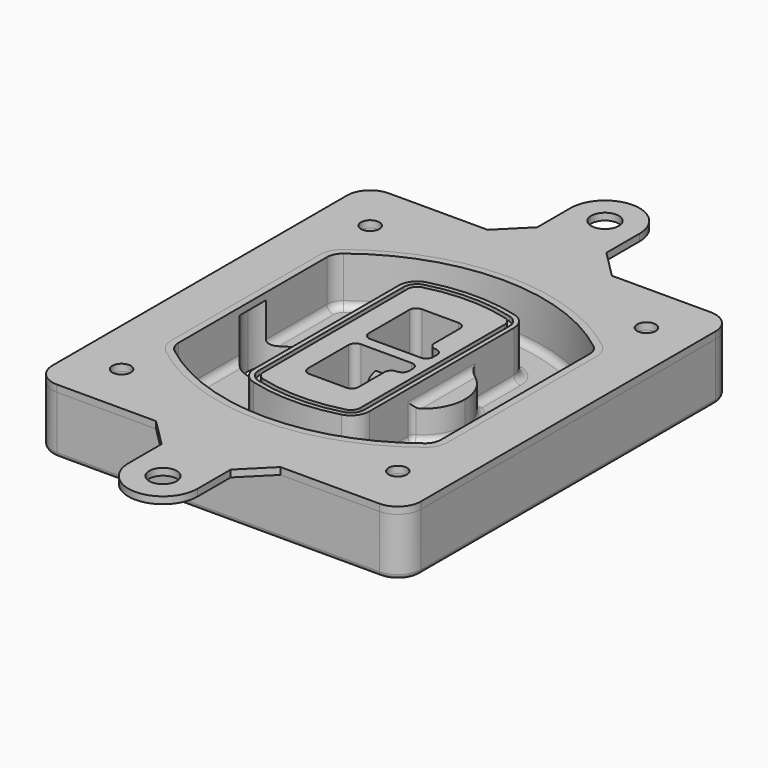
from build123d import *

# Parameters (mm, degrees)
F0_R      = 4
F1_DEPTH  = 25
F2_DEPTH  = 3
F3_DEPTH  = 18
F5_DEPTH  = 21
F6_DEPTH  = 2
F8_DEPTH  = 20
F9_DEPTH  = 16
F10_DEPTH = 25
F7_R      = 6
F7_R_2    = 4
F11_DEPTH = 6
F13_DEPTH = 9
F14_R     = 3
F15_R     = 2
F16_R     = 6
F16_R_2   = 4
F17_DEPTH = 3


with BuildPart() as f1:
    # F0 (on Top) → F1 (new body)
    with BuildSketch(Plane.XY):
        with BuildLine():
            ThreePointArc((14.05, 38.3825811321), (16.9789321881, 31.3115133202), (24.05, 28.3825811321))
            Line((24.05, 28.3825811321), (164.05, 28.3825811321))
            ThreePointArc((164.05, 28.3825811321), (171.1210678119, 31.3115133202), (174.05, 38.3825811321))
            Line((174.05, 38.3825811321), (174.05, 198.3825811321))
            ThreePointArc((174.05, 198.3825811321), (171.1210678119, 205.4536489439), (164.05, 208.3825811321))
            Line((164.05, 208.3825811321), (24.05, 208.3825811321))
            ThreePointArc((24.05, 208.3825811321), (16.9789321881, 205.4536489439), (14.05, 198.3825811321))
            Line((14.05, 198.3825811321), (14.05, 38.3825811321))
        make_face()
        with Locations((34.05, 50.8825811321)):
            Circle(F0_R, mode=Mode.SUBTRACT)
        with Locations((154.05, 50.8825811321)):
            Circle(F0_R, mode=Mode.SUBTRACT)
        with BuildLine():
            ThreePointArc((30.05, 158.6760234193), (31.4679615202, 164.8154295545), (35.4346153846, 169.7112011673))
            ThreePointArc((35.4346153846, 169.7112011673), (94.05, 189.8825811321), (152.6653846154, 169.7112011673))
            ThreePointArc((152.6653846154, 169.7112011673), (156.6320384798, 164.8154295545), (158.05, 158.6760234193))
            Line((158.05, 158.6760234193), (158.05, 78.0891388448))
            ThreePointArc((158.05, 78.0891388448), (156.6320384798, 71.9497327097), (152.6653846154, 67.0539610969))
            ThreePointArc((152.6653846154, 67.0539610969), (94.05, 46.8825811321), (35.4346153846, 67.0539610969))
            ThreePointArc((35.4346153846, 67.0539610969), (31.4679615202, 71.9497327097), (30.05, 78.0891388448))
            Line((30.05, 78.0891388448), (30.05, 158.6760234193))
        make_face(mode=Mode.SUBTRACT)
        with Locations((34.05, 185.8825811321)):
            Circle(F0_R, mode=Mode.SUBTRACT)
        with Locations((154.05, 185.8825811321)):
            Circle(F0_R, mode=Mode.SUBTRACT)
        with BuildLine():
            ThreePointArc((152.6653846154, 169.7112011673), (94.05, 189.8825811321), (35.4346153846, 169.7112011673))
            ThreePointArc((35.4346153846, 169.7112011673), (31.4679615202, 164.8154295545), (30.05, 158.6760234193))
            Line((30.05, 158.6760234193), (30.05, 78.0891388448))
            ThreePointArc((30.05, 78.0891388448), (31.4679615202, 71.9497327097), (35.4346153846, 67.0539610969))
            ThreePointArc((35.4346153846, 67.0539610969), (94.05, 46.8825811321), (152.6653846154, 67.0539610969))
            ThreePointArc((152.6653846154, 67.0539610969), (156.6320384798, 71.9497327097), (158.05, 78.0891388448))
            Line((158.05, 78.0891388448), (158.05, 158.6760234193))
            ThreePointArc((158.05, 158.6760234193), (156.6320384798, 164.8154295545), (152.6653846154, 169.7112011673))
        make_face()
        with BuildLine():
            Line((34.05, 78.0891388448), (34.05, 158.6760234193))
            ThreePointArc((34.05, 158.6760234193), (35.0628296573, 163.0613135158), (37.8961538462, 166.5582932393))
            ThreePointArc((37.8961538462, 166.5582932393), (94.05, 185.8825811321), (150.2038461538, 166.5582932393))
            ThreePointArc((150.2038461538, 166.5582932393), (153.0371703427, 163.0613135158), (154.05, 158.6760234193))
            Line((154.05, 158.6760234193), (154.05, 78.0891388448))
            ThreePointArc((154.05, 78.0891388448), (153.0371703427, 73.7038487483), (150.2038461538, 70.2068690248))
            ThreePointArc((150.2038461538, 70.2068690248), (94.05, 50.8825811321), (37.8961538462, 70.2068690248))
            ThreePointArc((37.8961538462, 70.2068690248), (35.0628296573, 73.7038487483), (34.05, 78.0891388448))
        make_face(mode=Mode.SUBTRACT)
        with BuildLine():
            ThreePointArc((37.8961538462, 166.5582932393), (35.0628296573, 163.0613135158), (34.05, 158.6760234193))
            Line((34.05, 158.6760234193), (34.05, 78.0891388448))
            ThreePointArc((34.05, 78.0891388448), (35.0628296573, 73.7038487483), (37.8961538462, 70.2068690248))
            ThreePointArc((37.8961538462, 70.2068690248), (94.05, 50.8825811321), (150.2038461538, 70.2068690248))
            ThreePointArc((150.2038461538, 70.2068690248), (153.0371703427, 73.7038487483), (154.05, 78.0891388448))
            Line((154.05, 78.0891388448), (154.05, 158.6760234193))
            ThreePointArc((154.05, 158.6760234193), (153.0371703427, 163.0613135158), (150.2038461538, 166.5582932393))
            ThreePointArc((150.2038461538, 166.5582932393), (94.05, 185.8825811321), (37.8961538462, 166.5582932393))
        make_face()
        with BuildLine():
            ThreePointArc((148.3576923077, 164.1936122933), (150.3410192399, 161.7457264869), (151.05, 158.6760234193))
            Line((151.05, 158.6760234193), (151.05, 78.0891388448))
            ThreePointArc((151.05, 78.0891388448), (150.3410192399, 75.0194357772), (148.3576923077, 72.5715499708))
            ThreePointArc((148.3576923077, 72.5715499708), (94.05, 53.8825811321), (39.7423076923, 72.5715499708))
            ThreePointArc((39.7423076923, 72.5715499708), (37.7589807601, 75.0194357772), (37.05, 78.0891388448))
            Line((37.05, 78.0891388448), (37.05, 158.6760234193))
            ThreePointArc((37.05, 158.6760234193), (37.7589807601, 161.7457264869), (39.7423076923, 164.1936122933))
            ThreePointArc((39.7423076923, 164.1936122933), (94.05, 182.8825811321), (148.3576923077, 164.1936122933))
        make_face(mode=Mode.SUBTRACT)
        with BuildLine():
            Line((151.05, 78.0891388448), (151.05, 158.6760234193))
            ThreePointArc((151.05, 158.6760234193), (150.3410192399, 161.7457264869), (148.3576923077, 164.1936122933))
            ThreePointArc((148.3576923077, 164.1936122933), (94.05, 182.8825811321), (39.7423076923, 164.1936122933))
            ThreePointArc((39.7423076923, 164.1936122933), (37.7589807601, 161.7457264869), (37.05, 158.6760234193))
            Line((37.05, 158.6760234193), (37.05, 78.0891388448))
            ThreePointArc((37.05, 78.0891388448), (37.7589807601, 75.0194357772), (39.7423076923, 72.5715499708))
            ThreePointArc((39.7423076923, 72.5715499708), (94.05, 53.8825811321), (148.3576923077, 72.5715499708))
            ThreePointArc((148.3576923077, 72.5715499708), (150.3410192399, 75.0194357772), (151.05, 78.0891388448))
        make_face()
    extrude(amount=-F1_DEPTH)

    # F0 (on Top) → F2 (join)
    with BuildSketch(Plane.XY):
        with BuildLine():
            ThreePointArc((37.8961538462, 166.5582932393), (35.0628296573, 163.0613135158), (34.05, 158.6760234193))
            Line((34.05, 158.6760234193), (34.05, 78.0891388448))
            ThreePointArc((34.05, 78.0891388448), (35.0628296573, 73.7038487483), (37.8961538462, 70.2068690248))
            ThreePointArc((37.8961538462, 70.2068690248), (94.05, 50.8825811321), (150.2038461538, 70.2068690248))
            ThreePointArc((150.2038461538, 70.2068690248), (153.0371703427, 73.7038487483), (154.05, 78.0891388448))
            Line((154.05, 78.0891388448), (154.05, 158.6760234193))
            ThreePointArc((154.05, 158.6760234193), (153.0371703427, 163.0613135158), (150.2038461538, 166.5582932393))
            ThreePointArc((150.2038461538, 166.5582932393), (94.05, 185.8825811321), (37.8961538462, 166.5582932393))
        make_face()
        with BuildLine():
            ThreePointArc((148.3576923077, 164.1936122933), (150.3410192399, 161.7457264869), (151.05, 158.6760234193))
            Line((151.05, 158.6760234193), (151.05, 78.0891388448))
            ThreePointArc((151.05, 78.0891388448), (150.3410192399, 75.0194357772), (148.3576923077, 72.5715499708))
            ThreePointArc((148.3576923077, 72.5715499708), (94.05, 53.8825811321), (39.7423076923, 72.5715499708))
            ThreePointArc((39.7423076923, 72.5715499708), (37.7589807601, 75.0194357772), (37.05, 78.0891388448))
            Line((37.05, 78.0891388448), (37.05, 158.6760234193))
            ThreePointArc((37.05, 158.6760234193), (37.7589807601, 161.7457264869), (39.7423076923, 164.1936122933))
            ThreePointArc((39.7423076923, 164.1936122933), (94.05, 182.8825811321), (148.3576923077, 164.1936122933))
        make_face(mode=Mode.SUBTRACT)
    extrude(amount=F2_DEPTH)

    # F0 (on Top) → F3 (cut)
    with BuildSketch(Plane.XY):
        with BuildLine():
            Line((151.05, 78.0891388448), (151.05, 158.6760234193))
            ThreePointArc((151.05, 158.6760234193), (150.3410192399, 161.7457264869), (148.3576923077, 164.1936122933))
            ThreePointArc((148.3576923077, 164.1936122933), (94.05, 182.8825811321), (39.7423076923, 164.1936122933))
            ThreePointArc((39.7423076923, 164.1936122933), (37.7589807601, 161.7457264869), (37.05, 158.6760234193))
            Line((37.05, 158.6760234193), (37.05, 78.0891388448))
            ThreePointArc((37.05, 78.0891388448), (37.7589807601, 75.0194357772), (39.7423076923, 72.5715499708))
            ThreePointArc((39.7423076923, 72.5715499708), (94.05, 53.8825811321), (148.3576923077, 72.5715499708))
            ThreePointArc((148.3576923077, 72.5715499708), (150.3410192399, 75.0194357772), (151.05, 78.0891388448))
        make_face()
    extrude(amount=-F3_DEPTH, mode=Mode.SUBTRACT)

    # F4 (on face) → F5 (join, through all)
    with BuildSketch(Plane.XY.offset(3)):
        with BuildLine():
            ThreePointArc((69.05, 79.13605345), (70.6988454002, 74.2716074128), (74.9657088123, 71.4123412437))
            ThreePointArc((74.9657088123, 71.4123412437), (94.05, 68.8825811321), (113.1342911877, 71.4123412437))
            ThreePointArc((113.1342911877, 71.4123412437), (117.4011545998, 74.2716074128), (119.05, 79.13605345))
            Line((119.05, 79.13605345), (119.05, 157.6291088141))
            ThreePointArc((119.05, 157.6291088141), (117.4011545998, 162.4935548514), (113.1342911877, 165.3528210204))
            ThreePointArc((113.1342911877, 165.3528210204), (94.05, 167.8825811321), (74.9657088123, 165.3528210204))
            ThreePointArc((74.9657088123, 165.3528210204), (70.6988454002, 162.4935548514), (69.05, 157.6291088141))
            Line((69.05, 157.6291088141), (69.05, 79.13605345))
        make_face()
        with BuildLine():
            ThreePointArc((112.6132183908, 163.4218929688), (115.8133659499, 161.2774433421), (117.05, 157.6291088141))
            Line((117.05, 157.6291088141), (117.05, 79.13605345))
            ThreePointArc((117.05, 79.13605345), (115.8133659499, 75.4877189221), (112.6132183908, 73.3432692953))
            ThreePointArc((112.6132183908, 73.3432692953), (94.05, 70.8825811321), (75.4867816092, 73.3432692953))
            ThreePointArc((75.4867816092, 73.3432692953), (72.2866340501, 75.4877189221), (71.05, 79.13605345))
            Line((71.05, 79.13605345), (71.05, 157.6291088141))
            ThreePointArc((71.05, 157.6291088141), (72.2866340501, 161.2774433421), (75.4867816092, 163.4218929688))
            ThreePointArc((75.4867816092, 163.4218929688), (94.05, 165.8825811321), (112.6132183908, 163.4218929688))
        make_face(mode=Mode.SUBTRACT)
        with BuildLine():
            Line((117.05, 79.13605345), (117.05, 157.6291088141))
            ThreePointArc((117.05, 157.6291088141), (115.8133659499, 161.2774433421), (112.6132183908, 163.4218929688))
            ThreePointArc((112.6132183908, 163.4218929688), (94.05, 165.8825811321), (75.4867816092, 163.4218929688))
            ThreePointArc((75.4867816092, 163.4218929688), (72.2866340501, 161.2774433421), (71.05, 157.6291088141))
            Line((71.05, 157.6291088141), (71.05, 79.13605345))
            ThreePointArc((71.05, 79.13605345), (72.2866340501, 75.4877189221), (75.4867816092, 73.3432692953))
            ThreePointArc((75.4867816092, 73.3432692953), (94.05, 70.8825811321), (112.6132183908, 73.3432692953))
            ThreePointArc((112.6132183908, 73.3432692953), (115.8133659499, 75.4877189221), (117.05, 79.13605345))
        make_face()
        with BuildLine():
            ThreePointArc((112.0921455939, 161.4909649173), (114.2255772999, 160.0613318328), (115.05, 157.6291088141))
            Line((115.05, 157.6291088141), (115.05, 79.13605345))
            ThreePointArc((115.05, 79.13605345), (114.2255772999, 76.7038304314), (112.0921455939, 75.2741973469))
            ThreePointArc((112.0921455939, 75.2741973469), (94.05, 72.8825811321), (76.0078544061, 75.2741973469))
            ThreePointArc((76.0078544061, 75.2741973469), (73.8744227001, 76.7038304314), (73.05, 79.13605345))
            Line((73.05, 79.13605345), (73.05, 157.6291088141))
            ThreePointArc((73.05, 157.6291088141), (73.8744227001, 160.0613318328), (76.0078544061, 161.4909649173))
            ThreePointArc((76.0078544061, 161.4909649173), (94.05, 163.8825811321), (112.0921455939, 161.4909649173))
        make_face(mode=Mode.SUBTRACT)
        with BuildLine():
            Line((115.05, 79.13605345), (115.05, 157.6291088141))
            ThreePointArc((115.05, 157.6291088141), (114.2255772999, 160.0613318328), (112.0921455939, 161.4909649173))
            ThreePointArc((112.0921455939, 161.4909649173), (94.05, 163.8825811321), (76.0078544061, 161.4909649173))
            ThreePointArc((76.0078544061, 161.4909649173), (73.8744227001, 160.0613318328), (73.05, 157.6291088141))
            Line((73.05, 157.6291088141), (73.05, 79.13605345))
            ThreePointArc((73.05, 79.13605345), (73.8744227001, 76.7038304314), (76.0078544061, 75.2741973469))
            ThreePointArc((76.0078544061, 75.2741973469), (94.05, 72.8825811321), (112.0921455939, 75.2741973469))
            ThreePointArc((112.0921455939, 75.2741973469), (114.2255772999, 76.7038304314), (115.05, 79.13605345))
        make_face()
        with BuildLine():
            Line((86.05, 115.8825811321), (108.05, 115.8825811321))
            ThreePointArc((108.05, 115.8825811321), (110.1713203436, 115.0039014756), (111.05, 112.8825811321))
            Line((111.05, 112.8825811321), (111.05, 110.8825811321))
            ThreePointArc((111.05, 110.8825811321), (110.1713203436, 108.7612607885), (108.05, 107.8825811321))
            ThreePointArc((108.05, 107.8825811321), (105.9286796564, 107.0039014756), (105.05, 104.8825811321))
            Line((105.05, 104.8825811321), (105.05, 90.8825811321))
            ThreePointArc((105.05, 90.8825811321), (104.1713203436, 88.7612607885), (102.05, 87.8825811321))
            Line((102.05, 87.8825811321), (86.05, 87.8825811321))
            ThreePointArc((86.05, 87.8825811321), (83.9286796564, 88.7612607885), (83.05, 90.8825811321))
            Line((83.05, 90.8825811321), (83.05, 112.8825811321))
            ThreePointArc((83.05, 112.8825811321), (83.9286796564, 115.0039014756), (86.05, 115.8825811321))
        make_face(mode=Mode.SUBTRACT)
        with BuildLine():
            ThreePointArc((86.05, 120.8825811321), (83.9286796564, 121.7612607885), (83.05, 123.8825811321))
            Line((83.05, 123.8825811321), (83.05, 145.8825811321))
            ThreePointArc((83.05, 145.8825811321), (83.9286796564, 148.0039014756), (86.05, 148.8825811321))
            Line((86.05, 148.8825811321), (102.05, 148.8825811321))
            ThreePointArc((102.05, 148.8825811321), (104.1713203436, 148.0039014756), (105.05, 145.8825811321))
            Line((105.05, 145.8825811321), (105.05, 131.8825811321))
            ThreePointArc((105.05, 131.8825811321), (105.9286796564, 129.7612607885), (108.05, 128.8825811321))
            ThreePointArc((108.05, 128.8825811321), (110.1713203436, 128.0039014756), (111.05, 125.8825811321))
            Line((111.05, 125.8825811321), (111.05, 123.8825811321))
            ThreePointArc((111.05, 123.8825811321), (110.1713203436, 121.7612607885), (108.05, 120.8825811321))
            Line((108.05, 120.8825811321), (86.05, 120.8825811321))
        make_face(mode=Mode.SUBTRACT)
    extrude(amount=-F5_DEPTH)

    # F4 (on face) → F6 (cut)
    with BuildSketch(Plane.XY.offset(3)):
        with BuildLine():
            Line((117.05, 79.13605345), (117.05, 157.6291088141))
            ThreePointArc((117.05, 157.6291088141), (115.8133659499, 161.2774433421), (112.6132183908, 163.4218929688))
            ThreePointArc((112.6132183908, 163.4218929688), (94.05, 165.8825811321), (75.4867816092, 163.4218929688))
            ThreePointArc((75.4867816092, 163.4218929688), (72.2866340501, 161.2774433421), (71.05, 157.6291088141))
            Line((71.05, 157.6291088141), (71.05, 79.13605345))
            ThreePointArc((71.05, 79.13605345), (72.2866340501, 75.4877189221), (75.4867816092, 73.3432692953))
            ThreePointArc((75.4867816092, 73.3432692953), (94.05, 70.8825811321), (112.6132183908, 73.3432692953))
            ThreePointArc((112.6132183908, 73.3432692953), (115.8133659499, 75.4877189221), (117.05, 79.13605345))
        make_face()
        with BuildLine():
            ThreePointArc((112.0921455939, 161.4909649173), (114.2255772999, 160.0613318328), (115.05, 157.6291088141))
            Line((115.05, 157.6291088141), (115.05, 79.13605345))
            ThreePointArc((115.05, 79.13605345), (114.2255772999, 76.7038304314), (112.0921455939, 75.2741973469))
            ThreePointArc((112.0921455939, 75.2741973469), (94.05, 72.8825811321), (76.0078544061, 75.2741973469))
            ThreePointArc((76.0078544061, 75.2741973469), (73.8744227001, 76.7038304314), (73.05, 79.13605345))
            Line((73.05, 79.13605345), (73.05, 157.6291088141))
            ThreePointArc((73.05, 157.6291088141), (73.8744227001, 160.0613318328), (76.0078544061, 161.4909649173))
            ThreePointArc((76.0078544061, 161.4909649173), (94.05, 163.8825811321), (112.0921455939, 161.4909649173))
        make_face(mode=Mode.SUBTRACT)
    extrude(amount=-F6_DEPTH, mode=Mode.SUBTRACT)

    # F7 (on face) → F8 (join)
    with BuildSketch(Plane(origin=(0, 0, -25), x_dir=(1, 0, 0), z_dir=(0, 0, -1))):
        with BuildLine():
            ThreePointArc((97.33842436, -118.3825811321), (110.8067035675, -104.9143019245), (124.274982775, -118.3825811321))
            Line((124.274982775, -118.3825811321), (129.274982775, -118.3825811321))
            ThreePointArc((129.274982775, -118.3825811321), (110.8067035675, -99.9143019245), (92.33842436, -118.3825811321))
            Line((92.33842436, -118.3825811321), (97.33842436, -118.3825811321))
        make_face()
        with BuildLine():
            Line((97.33842436, -118.3825811321), (124.274982775, -118.3825811321))
            ThreePointArc((124.274982775, -118.3825811321), (110.8067035675, -104.9143019245), (97.33842436, -118.3825811321))
        make_face()
        with BuildLine():
            ThreePointArc((97.33842436, -118.3825811321), (110.8067035675, -131.8508603396), (124.274982775, -118.3825811321))
            Line((124.274982775, -118.3825811321), (97.33842436, -118.3825811321))
        make_face()
        with BuildLine():
            Line((129.274982775, -118.3825811321), (124.274982775, -118.3825811321))
            ThreePointArc((124.274982775, -118.3825811321), (110.8067035675, -131.8508603396), (97.33842436, -118.3825811321))
            Line((97.33842436, -118.3825811321), (92.33842436, -118.3825811321))
            ThreePointArc((92.33842436, -118.3825811321), (110.8067035675, -136.8508603396), (129.274982775, -118.3825811321))
        make_face()
    extrude(amount=-F8_DEPTH)

    # F7 (on face) → F9 (cut)
    with BuildSketch(Plane(origin=(0, 0, -25), x_dir=(1, 0, 0), z_dir=(0, 0, -1))):
        with BuildLine():
            Line((97.33842436, -118.3825811321), (124.274982775, -118.3825811321))
            ThreePointArc((124.274982775, -118.3825811321), (110.8067035675, -104.9143019245), (97.33842436, -118.3825811321))
        make_face()
        with BuildLine():
            ThreePointArc((97.33842436, -118.3825811321), (110.8067035675, -131.8508603396), (124.274982775, -118.3825811321))
            Line((124.274982775, -118.3825811321), (97.33842436, -118.3825811321))
        make_face()
    extrude(amount=-F9_DEPTH, mode=Mode.SUBTRACT)

    # F7 (on face) → F10 (cut)
    with BuildSketch(Plane(origin=(0, 0, -25), x_dir=(1, 0, 0), z_dir=(0, 0, -1))):
        with BuildLine():
            Line((35.0181770675, -118.3825811321), (61.9547354825, -118.3825811321))
            ThreePointArc((61.9547354825, -118.3825811321), (48.486456275, -104.9143019245), (35.0181770675, -118.3825811321))
        make_face()
        with BuildLine():
            ThreePointArc((35.0181770675, -118.3825811321), (48.486456275, -131.8508603396), (61.9547354825, -118.3825811321))
            Line((61.9547354825, -118.3825811321), (35.0181770675, -118.3825811321))
        make_face()
    extrude(amount=-F10_DEPTH, mode=Mode.SUBTRACT)

    # F7 (on face) → F11 (cut)
    with BuildSketch(Plane(origin=(0, 0, -25), x_dir=(1, 0, 0), z_dir=(0, 0, -1))):
        with Locations((154.05, -185.8825811321)):
            Circle(F7_R)
        with Locations((154.05, -185.8825811321)):
            Circle(F7_R_2, mode=Mode.SUBTRACT)
        with Locations((154.05, -185.8825811321)):
            Circle(F7_R)
        with Locations((154.05, -185.8825811321)):
            Circle(F7_R_2, mode=Mode.SUBTRACT)
        with Locations((34.05, -185.8825811321)):
            Circle(F7_R)
        with Locations((34.05, -185.8825811321)):
            Circle(F7_R_2, mode=Mode.SUBTRACT)
        with Locations((34.05, -185.8825811321)):
            Circle(F7_R)
        with Locations((34.05, -185.8825811321)):
            Circle(F7_R_2, mode=Mode.SUBTRACT)
        with Locations((34.05, -50.8825811321)):
            Circle(F7_R)
        with Locations((34.05, -50.8825811321)):
            Circle(F7_R_2, mode=Mode.SUBTRACT)
        with Locations((34.05, -50.8825811321)):
            Circle(F7_R)
        with Locations((34.05, -50.8825811321)):
            Circle(F7_R_2, mode=Mode.SUBTRACT)
        with Locations((154.05, -50.8825811321)):
            Circle(F7_R)
        with Locations((154.05, -50.8825811321)):
            Circle(F7_R_2, mode=Mode.SUBTRACT)
        with Locations((154.05, -50.8825811321)):
            Circle(F7_R)
        with Locations((154.05, -50.8825811321)):
            Circle(F7_R_2, mode=Mode.SUBTRACT)
    extrude(amount=-F11_DEPTH, mode=Mode.SUBTRACT)

    # F12 (on face) → F13 (cut, through all)
    with BuildSketch(Plane(origin=(0, 0, -9), x_dir=(1, 0, 0), z_dir=(0, 0, -1))):
        with BuildLine():
            Line((105.05, -104.8825811321), (105.05, -100.8344273567))
            ThreePointArc((105.05, -100.8344273567), (96.6196536419, -106.5586667507), (92.5084157545, -115.8825811321))
            Line((92.5084157545, -115.8825811321), (97.5724848595, -115.8825811321))
            ThreePointArc((97.5724848595, -115.8825811321), (100.2357188154, -110.0369939039), (105.3036447004, -106.0898642673))
            ThreePointArc((105.3036447004, -106.0898642673), (105.1140958889, -105.4994012441), (105.05, -104.8825811321))
        make_face()
        with BuildLine():
            ThreePointArc((105.3036447004, -130.6752979968), (100.2357188154, -126.7281683602), (97.5724848595, -120.8825811321))
            Line((97.5724848595, -120.8825811321), (92.5084157545, -120.8825811321))
            ThreePointArc((92.5084157545, -120.8825811321), (96.6196536419, -130.2064955134), (105.05, -135.9307349074))
            Line((105.05, -135.9307349074), (105.05, -131.8825811321))
            ThreePointArc((105.05, -131.8825811321), (105.1140958889, -131.26576102), (105.3036447004, -130.6752979968))
        make_face()
        with BuildLine():
            ThreePointArc((105.3036447004, -106.0898642673), (100.2357188154, -110.0369939039), (97.5724848595, -115.8825811321))
            Line((97.5724848595, -115.8825811321), (108.05, -115.8825811321))
            ThreePointArc((108.05, -115.8825811321), (110.1713203436, -115.0039014756), (111.05, -112.8825811321))
            Line((111.05, -112.8825811321), (111.05, -110.8825811321))
            ThreePointArc((111.05, -110.8825811321), (110.1713203436, -108.7612607885), (108.05, -107.8825811321))
            ThreePointArc((108.05, -107.8825811321), (106.4101599782, -107.3947365219), (105.3036447004, -106.0898642673))
        make_face()
        with BuildLine():
            Line((108.05, -120.8825811321), (97.5724848595, -120.8825811321))
            ThreePointArc((97.5724848595, -120.8825811321), (100.2357188154, -126.7281683602), (105.3036447004, -130.6752979968))
            ThreePointArc((105.3036447004, -130.6752979968), (106.4101599782, -129.3704257422), (108.05, -128.8825811321))
            ThreePointArc((108.05, -128.8825811321), (110.1713203436, -128.0039014756), (111.05, -125.8825811321))
            Line((111.05, -125.8825811321), (111.05, -123.8825811321))
            ThreePointArc((111.05, -123.8825811321), (110.1713203436, -121.7612607885), (108.05, -120.8825811321))
        make_face()
    extrude(amount=F13_DEPTH, mode=Mode.SUBTRACT)

    # F14
    f14_edges = [f1.edges().sort_by_distance(p)[0] for p in [
        (37.05, 94.679105, -18),
        (37.05, 142.086057, -18),
        (119.05, 118.382581, -5),
        (119.05, 134.909087, -11.5),
        (119.05, 101.856075, -11.5),
        (119.05, 90.496064, -18),
        (129.274983, 118.382581, -18),
    ]]
    fillet(f14_edges, radius=F14_R)

    # F15
    f15_edges = [f1.edges().sort_by_distance(p)[0] for p in [
        (94.05, 28.382581, -25),
    ]]
    fillet(f15_edges, radius=F15_R)


with BuildPart() as f17:
    # F16 (on face) → F17 (new body, through all)
    with BuildSketch(Plane.XY):
        with BuildLine():
            Line((109.05, 220.3825811321), (109.05, 238.3825811321))
            ThreePointArc((109.05, 238.3825811321), (94.05, 253.3825811321), (79.05, 238.3825811321))
            Line((79.05, 238.3825811321), (79.05, 220.3825811321))
            Line((79.05, 220.3825811321), (67.05, 208.3825811321))
            Line((67.05, 208.3825811321), (121.05, 208.3825811321))
            Line((121.05, 208.3825811321), (109.05, 220.3825811321))
        make_face()
        with Locations((94.05, 238.3825811321)):
            Circle(F16_R, mode=Mode.SUBTRACT)
        with BuildLine():
            Line((109.05, 16.3825811321), (121.05, 28.3825811321))
            Line((121.05, 28.3825811321), (67.05, 28.3825811321))
            Line((67.05, 28.3825811321), (79.05, 16.3825811321))
            Line((79.05, 16.3825811321), (79.05, -1.6174188679))
            ThreePointArc((79.05, -1.6174188679), (94.05, -16.6174188679), (109.05, -1.6174188679))
            Line((109.05, -1.6174188679), (109.05, 16.3825811321))
        make_face()
        with Locations((94.05, -1.6174188679)):
            Circle(F16_R, mode=Mode.SUBTRACT)
        with BuildLine():
            Line((164.05, 208.3825811321), (121.05, 208.3825811321))
            Line((121.05, 208.3825811321), (67.05, 208.3825811321))
            Line((67.05, 208.3825811321), (24.05, 208.3825811321))
            ThreePointArc((24.05, 208.3825811321), (16.9789321881, 205.4536489439), (14.05, 198.3825811321))
            Line((14.05, 198.3825811321), (14.05, 38.3825811321))
            ThreePointArc((14.05, 38.3825811321), (16.9789321881, 31.3115133202), (24.05, 28.3825811321))
            Line((24.05, 28.3825811321), (67.05, 28.3825811321))
            Line((67.05, 28.3825811321), (121.05, 28.3825811321))
            Line((121.05, 28.3825811321), (164.05, 28.3825811321))
            ThreePointArc((164.05, 28.3825811321), (171.1210678119, 31.3115133202), (174.05, 38.3825811321))
            Line((174.05, 38.3825811321), (174.05, 198.3825811321))
            ThreePointArc((174.05, 198.3825811321), (171.1210678119, 205.4536489439), (164.05, 208.3825811321))
        make_face()
        with Locations((34.05, 50.8825811321)):
            Circle(F16_R_2, mode=Mode.SUBTRACT)
        with BuildLine():
            ThreePointArc((34.05, 158.6760234193), (35.0628296573, 163.0613135158), (37.8961538462, 166.5582932393))
            ThreePointArc((37.8961538462, 166.5582932393), (94.05, 185.8825811321), (150.2038461538, 166.5582932393))
            ThreePointArc((150.2038461538, 166.5582932393), (153.0371703427, 163.0613135158), (154.05, 158.6760234193))
            Line((154.05, 158.6760234193), (154.05, 78.0891388448))
            ThreePointArc((154.05, 78.0891388448), (153.0371703427, 73.7038487483), (150.2038461538, 70.2068690248))
            ThreePointArc((150.2038461538, 70.2068690248), (94.05, 50.8825811321), (37.8961538462, 70.2068690248))
            ThreePointArc((37.8961538462, 70.2068690248), (35.0628296573, 73.7038487483), (34.05, 78.0891388448))
            Line((34.05, 78.0891388448), (34.05, 158.6760234193))
        make_face(mode=Mode.SUBTRACT)
        with Locations((154.05, 50.8825811321)):
            Circle(F16_R_2, mode=Mode.SUBTRACT)
        with Locations((34.05, 185.8825811321)):
            Circle(F16_R_2, mode=Mode.SUBTRACT)
        with Locations((154.05, 185.8825811321)):
            Circle(F16_R_2, mode=Mode.SUBTRACT)
    extrude(amount=F17_DEPTH)


solid = Compound([f1.part, f17.part])
